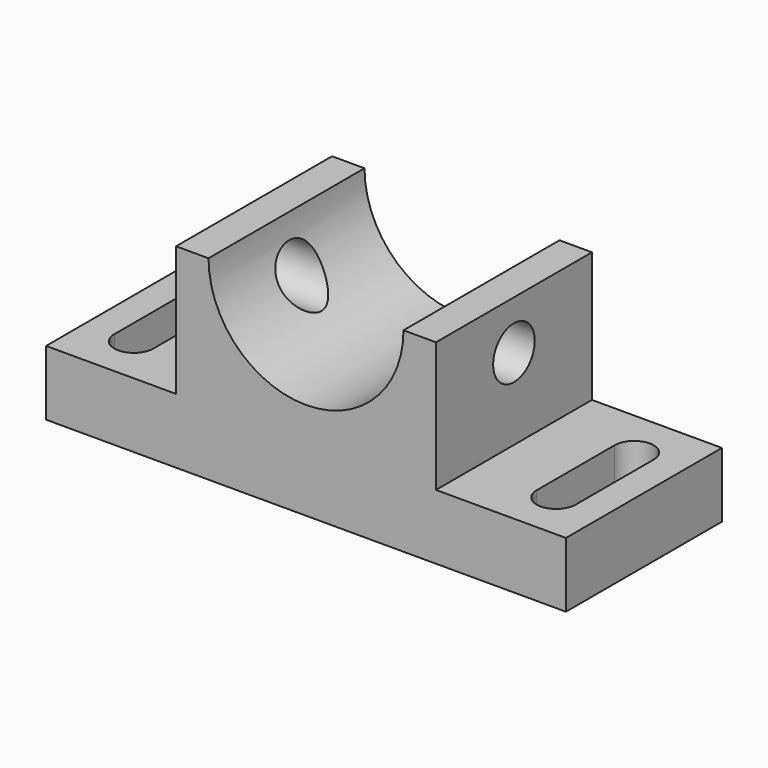
from build123d import *

# Parameters (mm, degrees)
F0_W     = 1600
F0_H     = 600
F1_DEPTH = 300
F2_R     = 300
F3_DEPTH = 600
F4_W     = 400
F4_H     = 400
F5_DEPTH = 600.001
F7_DEPTH = 200.001
F8_R     = 80
F9_DEPTH = 1200.001


with BuildPart() as f1:
    # F0 (on Front) → F1 (new body, symmetric)
    with BuildSketch(Plane.XZ):
        Rectangle(F0_W, F0_H)
    extrude(amount=F1_DEPTH, both=True)

    # F2 (on face) → F3 (cut)
    with BuildSketch(Plane.XZ.offset(300)):
        with Locations((0, 300)):
            Circle(F2_R)
    extrude(amount=-F3_DEPTH, mode=Mode.SUBTRACT)

    # F4 (on face) → F5 (cut, through all)
    with BuildSketch(Plane.XZ.offset(300)):
        with Locations((-600, 100)):
            Rectangle(F4_W, F4_H)
        with Locations((600, 100)):
            Rectangle(F4_W, F4_H)
    extrude(amount=-F5_DEPTH, mode=Mode.SUBTRACT)

    # F6 (on face) → F7 (cut, through all)
    with BuildSketch(Plane.XY.offset(-100)):
        with BuildLine():
            ThreePointArc((590, -150), (650, -210), (710, -150))
            Line((710, -150), (590, -150))
        make_face()
        with BuildLine():
            ThreePointArc((590, -150), (650, -90), (710, -150))
            Line((710, -150), (710, 150))
            ThreePointArc((710, 150), (650, 90), (590, 150))
            Line((590, 150), (590, -150))
        make_face()
        with BuildLine():
            Line((590, -150), (710, -150))
            ThreePointArc((710, -150), (650, -90), (590, -150))
        make_face()
        with BuildLine():
            ThreePointArc((590, 150), (650, 90), (710, 150))
            Line((710, 150), (590, 150))
        make_face()
        with BuildLine():
            Line((590, 150), (710, 150))
            ThreePointArc((710, 150), (650, 210), (590, 150))
        make_face()
        with BuildLine():
            ThreePointArc((-710, -150), (-650, -210), (-590, -150))
            Line((-590, -150), (-710, -150))
        make_face()
        with BuildLine():
            ThreePointArc((-710, -150), (-650, -90), (-590, -150))
            Line((-590, -150), (-590, 150))
            ThreePointArc((-590, 150), (-650, 90), (-710, 150))
            Line((-710, 150), (-710, -150))
        make_face()
        with BuildLine():
            Line((-710, -150), (-590, -150))
            ThreePointArc((-590, -150), (-650, -90), (-710, -150))
        make_face()
        with BuildLine():
            ThreePointArc((-710, 150), (-650, 90), (-590, 150))
            Line((-590, 150), (-710, 150))
        make_face()
        with BuildLine():
            Line((-710, 150), (-590, 150))
            ThreePointArc((-590, 150), (-650, 210), (-710, 150))
        make_face()
    extrude(amount=-F7_DEPTH, mode=Mode.SUBTRACT)

    # F8 (on face) → F9 (cut, through all)
    with BuildSketch(Plane.YZ.offset(400)):
        with Locations((0, 150)):
            Circle(F8_R)
    extrude(amount=-F9_DEPTH, mode=Mode.SUBTRACT)


solid = f1.part
